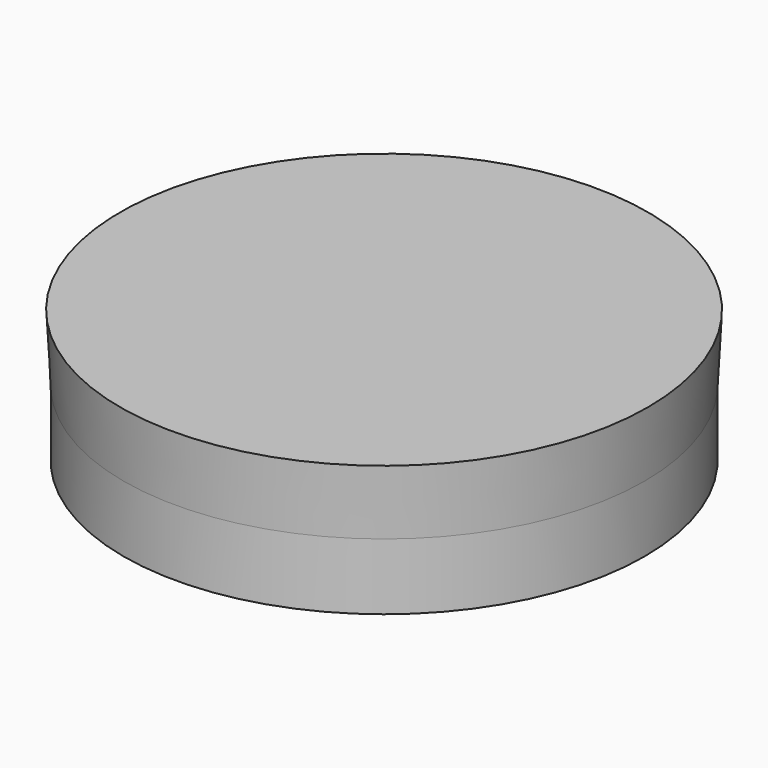
from build123d import *

# Parameters (mm, degrees)
F0_R          = 99.8479948598
F1_DEPTH      = 25.4
F1_TAPER      = -3
F1_DEPTH_BACK = 25.4


with BuildPart() as f1:
    # F0 (on Top) → F1 (new body, two sides)
    with BuildSketch(Plane.XY) as f1_sk:
        Circle(F0_R)
    extrude(amount=F1_DEPTH, taper=F1_TAPER)
    extrude(f1_sk.sketch, amount=-F1_DEPTH_BACK)


solid = f1.part
